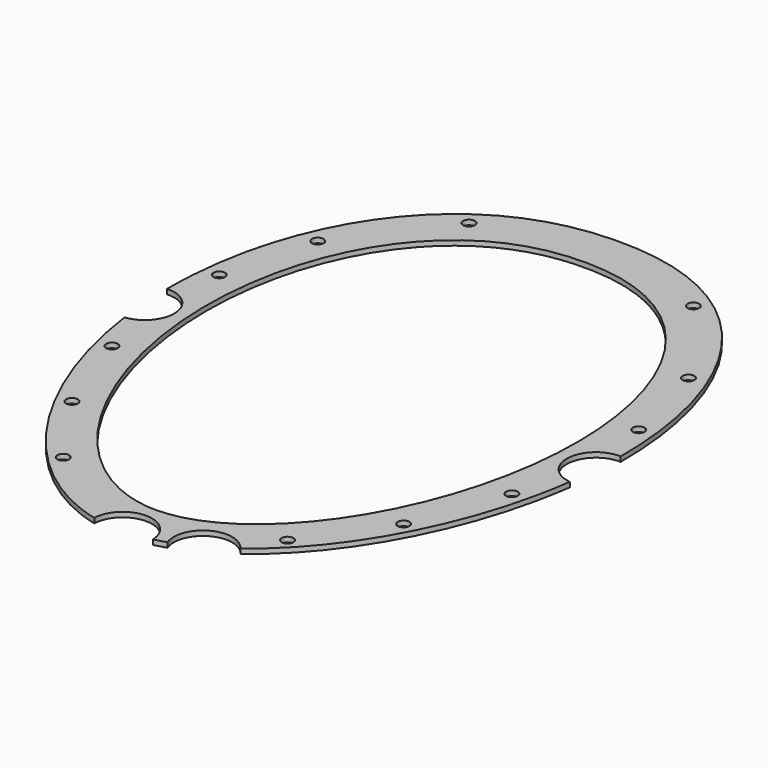
from build123d import *

# Parameters (mm, degrees)
PAD004_DEPTH    = 1
SKETCH011_R     = 6
POCKET005_DEPTH = 5
SKETCH012_R     = 1.2
HOLE001_DEPTH   = 25
POCKET010_DEPTH = 1.001


with BuildPart() as part:
    # Sketch010 → Pad004 (new body)
    with BuildSketch(Plane.XY):
        with BuildLine():
            add(Edge.make_bspline(
                [(-2.1e-05, -64), (30.999979, -64.00001), (69.74999, -19.2), (69.75001, 44.8), (31.000021, 63.99999), (2.1e-05, 64), (-30.999979, 64.00001), (-69.74999, 44.8), (-69.75001, -19.2), (-31.000021, -63.99999), (-2.1e-05, -64)],
                knots=[0, 0, 0, 0, 0, 0, 1, 1, 1, 1, 1, 2, 2, 2, 2, 2, 2], degree=5, weights=[3, 1.8, 1.2, 1.2, 1.8, 3, 1.8, 1.2, 1.2, 1.8, 3]))
        make_face()
    extrude(amount=PAD004_DEPTH)

    # Sketch011 (on Face3 of Pad004) → Pocket005 (cut)
    with BuildSketch(Plane.XY.offset(1)):
        with Locations((-46.25, 0)):
            Circle(SKETCH011_R)
        with Locations((46.25, 0)):
            Circle(SKETCH011_R)
        with Locations((0, -63.5)):
            Circle(SKETCH011_R)
        with Locations((14.064063, -60.5)):
            Circle(SKETCH011_R)
    extrude(amount=-POCKET005_DEPTH, mode=Mode.SUBTRACT)

    # Sketch012 (on Face4 of Pocket005) → Hole001 (cut)
    with BuildSketch(Plane.XY.offset(1)):
        with Locations((-41, -15)):
            Circle(SKETCH012_R)
        with Locations((41, -15)):
            Circle(SKETCH012_R)
        with Locations((-23, -50)):
            Circle(SKETCH012_R)
        with Locations((23, -50)):
            Circle(SKETCH012_R)
        with Locations((-43, 15)):
            Circle(SKETCH012_R)
        with Locations((43, 15)):
            Circle(SKETCH012_R)
        with Locations((-23, 54)):
            Circle(SKETCH012_R)
        with Locations((23, 54)):
            Circle(SKETCH012_R)
        with Locations((-34, -34)):
            Circle(SKETCH012_R)
        with Locations((34, -34)):
            Circle(SKETCH012_R)
        with Locations((-38, 34)):
            Circle(SKETCH012_R)
        with Locations((38, 34)):
            Circle(SKETCH012_R)
    extrude(amount=-HOLE001_DEPTH, mode=Mode.SUBTRACT)

    # Sketch013 (on Face4 of Hole001) → Pocket010 (cut, through all)
    with BuildSketch(Plane.XY.offset(1)):
        with BuildLine():
            add(Edge.make_bspline(
                [(-1.8e-05, -55), (25.333315, -55.000008), (56.999991, -16.5), (57.000009, 38.5), (25.333351, 54.999992), (1.8e-05, 55), (-25.333315, 55.000008), (-56.999991, 38.5), (-57.000009, -16.5), (-25.333351, -54.999992), (-1.8e-05, -55)],
                knots=[0, 0, 0, 0, 0, 0, 1, 1, 1, 1, 1, 2, 2, 2, 2, 2, 2], degree=5, weights=[3, 1.8, 1.2, 1.2, 1.8, 3, 1.8, 1.2, 1.2, 1.8, 3]))
        make_face()
    extrude(amount=-POCKET010_DEPTH, mode=Mode.SUBTRACT)


with BuildPart() as part_1:
    # Body003 placement: moved
    add(part.part.moved(Location((0, 0, 3))))


solid = part_1.part
